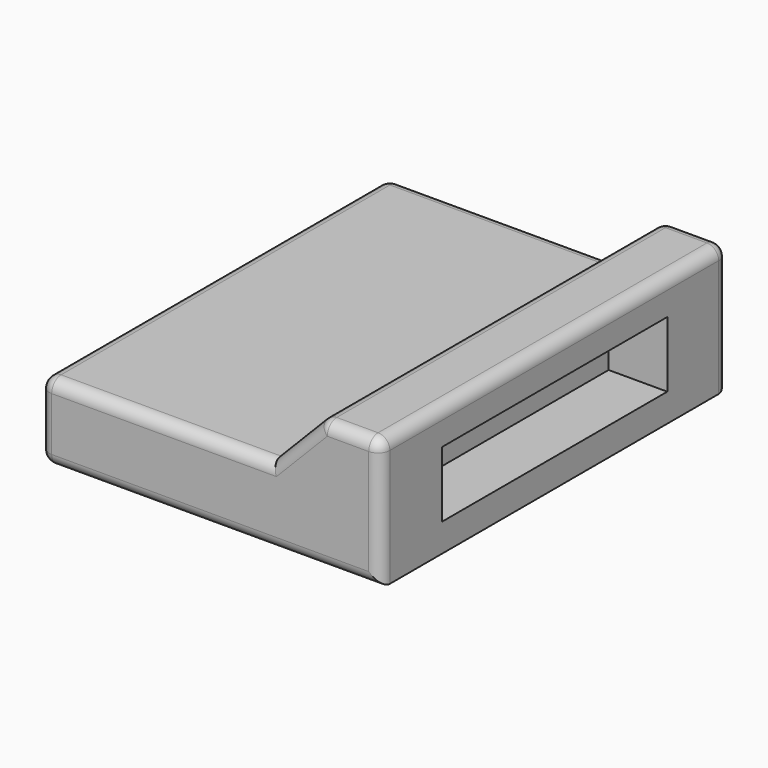
from build123d import *

# Parameters (mm, degrees)
F0_W     = 145
F0_H     = 185
F1_DEPTH = 55
F3_DEPTH = 98
F5_W     = 120
F5_H     = 28
F6_DEPTH = 25
F7_R     = 5


with BuildPart() as f1:
    # F0 (on Top) → F1 (new body)
    with BuildSketch(Plane.XY):
        Rectangle(F0_W, F0_H)
    extrude(amount=F1_DEPTH)

    # F2 (on Front) → F3 (cut, symmetric)
    with BuildSketch(Plane.XZ):
        Polygon((-92.57464, 55.003494), (-92.79651, 32.817475), (26.113287, 32.817475), (47.771066, 55.003494), align=None)
    extrude(amount=F3_DEPTH, both=True, mode=Mode.SUBTRACT)

    # F5 (on face) → F6 (cut)
    with BuildSketch(Plane.YZ.offset(72.5)):
        with Locations((0.170817, 26)):
            Rectangle(F5_W, F5_H)
    extrude(amount=-F6_DEPTH, mode=Mode.SUBTRACT)

    # F7
    f7_edges = [f1.edges().sort_by_distance(p)[0] for p in [
        (-23.193357, -92.5, 32.817475),
        (36.940471, -92.5, 43.908738),
        (-72.5, 0, 32.817475),
        (-23.193357, 92.5, 32.817475),
        (36.940471, 92.5, 43.908738),
        (47.767656, 0, 55),
        (72.5, 0, 55),
        (60.133828, -92.5, 55),
        (72.5, -92.5, 27.5),
        (72.5, 92.5, 27.5),
        (60.133828, 92.5, 55),
        (0, -92.5, 0),
        (0, 92.5, 0),
        (-72.5, 0, 0),
        (-72.5, -92.5, 16.408738),
        (-72.5, 92.5, 16.408738),
    ]]
    fillet(f7_edges, radius=F7_R)


solid = f1.part
